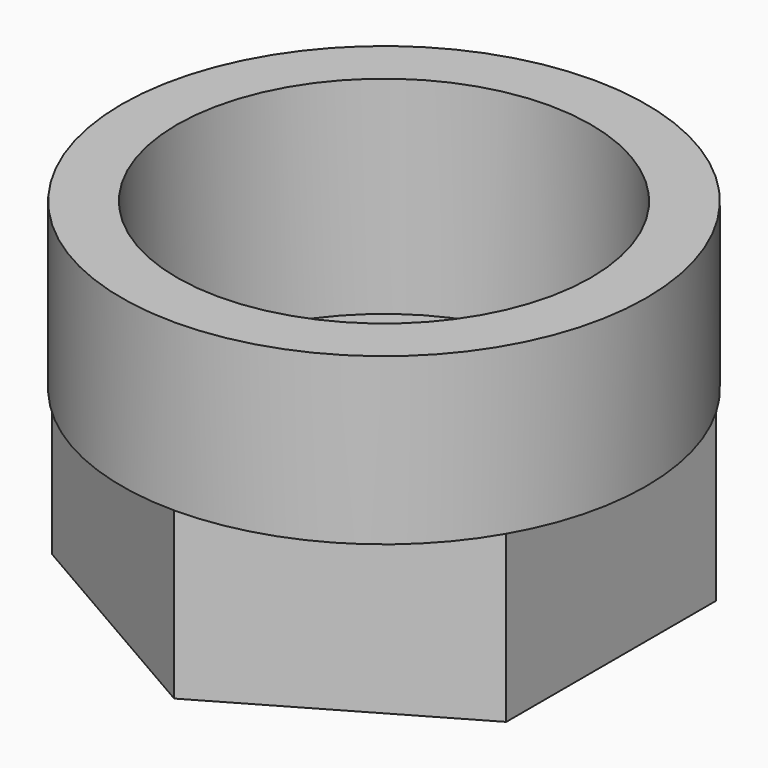
from build123d import *

# Parameters (mm, degrees)
SKETCH_R        = 9.5
PAD_DEPTH       = 6
PAD001_DEPTH    = 6
SKETCH002_R     = 4.5
POCKET_DEPTH    = 8
SKETCH003_R     = 7.5
POCKET001_DEPTH = 7.5


with BuildPart() as part:
    # Sketch → Pad (new body)
    with BuildSketch(Plane.XY):
        Circle(SKETCH_R)
    extrude(amount=-PAD_DEPTH)

    # Sketch001 → Pad001 (new body)
    with BuildSketch(Plane(origin=(0, 0, -6), x_dir=(1, 0, 0), z_dir=(0, 0, -1))):
        Polygon((8.227241, -4.75), (8.227241, 4.75), (0, 9.5), (-8.227241, 4.75), (-8.227241, -4.75), (0, -9.5), align=None)
    extrude(amount=PAD001_DEPTH)

    # Sketch002 → Pocket (cut)
    with BuildSketch(Plane(origin=(0, 0, -12), x_dir=(1, 0, 0), z_dir=(0, 0, -1))):
        Circle(SKETCH002_R)
    extrude(amount=-POCKET_DEPTH, mode=Mode.SUBTRACT)

    # Sketch003 → Pocket001 (cut)
    with BuildSketch(Plane.XY):
        Circle(SKETCH003_R)
    extrude(amount=-POCKET001_DEPTH, mode=Mode.SUBTRACT)


solid = part.part
